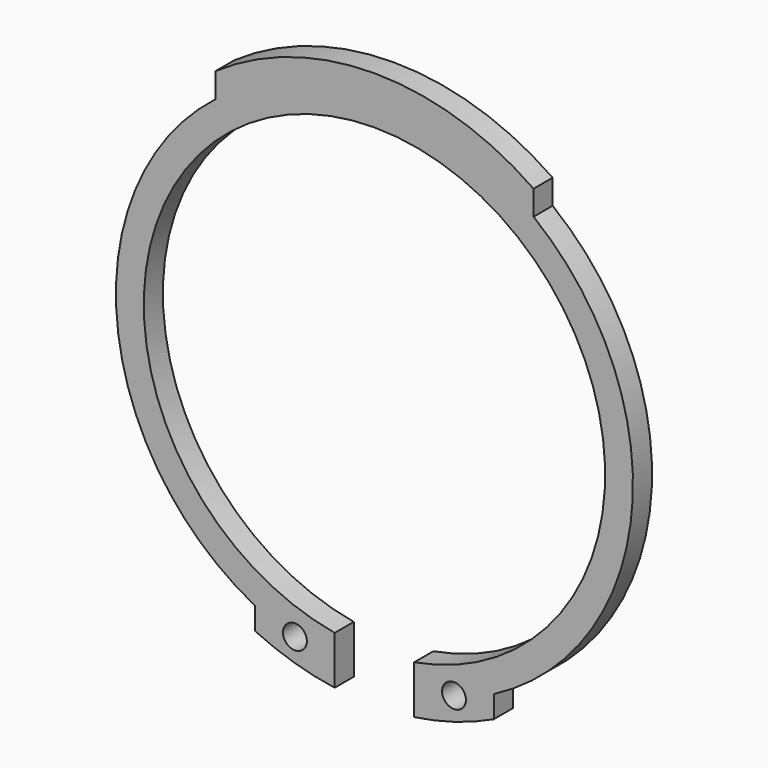
from build123d import *

# Parameters (mm, degrees)
SKETCH_R  = 0.6
PAD_DEPTH = 1.2


with BuildPart() as part:
    # Sketch → Pad (new body)
    with BuildSketch(Plane.XZ):
        with BuildLine():
            ThreePointArc((2, -11.426285), (0, 11.6), (-2, -11.426285))
            Line((-2, -11.426285), (-2, -13.856406))
            ThreePointArc((-6, -12.649111), (-4.045292, -13.402821), (-2, -13.856406))
            Line((-6, -12.649111), (-6, -11.532563))
            ThreePointArc((-8, 10.246951), (-12.945532, -1.188781), (-6, -11.532563))
            Line((-8, 10.246951), (-8, 11.489125))
            ThreePointArc((8, 11.489125), (0, 14), (-8, 11.489125))
            Line((8, 10.246951), (8, 11.489125))
            ThreePointArc((6, -11.532563), (12.945532, -1.188781), (8, 10.246951))
            Line((6, -11.532563), (6, -12.649111))
            ThreePointArc((2, -13.856406), (4.045292, -13.402821), (6, -12.649111))
            Line((2, -11.426285), (2, -13.856406))
        make_face()
        with Locations((-4, -12.25)):
            Circle(SKETCH_R, mode=Mode.SUBTRACT)
        with Locations((4, -12.25)):
            Circle(SKETCH_R, mode=Mode.SUBTRACT)
    extrude(amount=PAD_DEPTH)


solid = part.part
